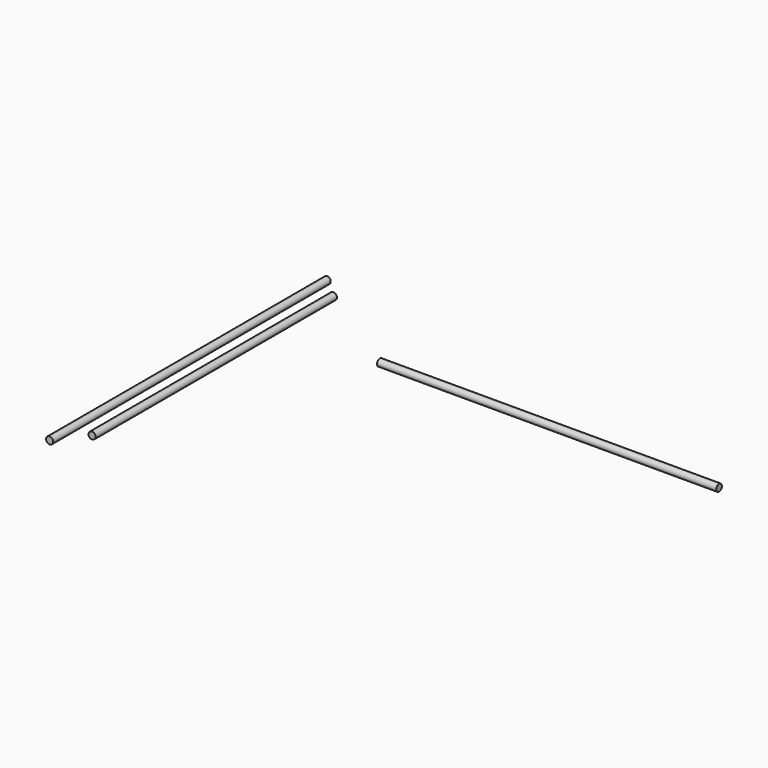
from build123d import *

# Parameters (mm, degrees)
F0_R     = 4
F4_DEPTH = 382.175
F1_R     = 4
F5_DEPTH = 391
F6_R     = 4
F7_DEPTH = 340


with BuildPart() as f4:
    # F0 (on Right) → F4 (new body)
    with BuildSketch(Plane.YZ):
        Circle(F0_R)
    extrude(amount=F4_DEPTH)


with BuildPart() as f5:
    # F1 (on Front) → F5 (new body)
    with BuildSketch(Plane.XZ):
        with Locations((-59.4056621194, 62.2670501471)):
            Circle(F1_R)
    extrude(amount=F5_DEPTH)


with BuildPart() as f7:
    # F6 (on Front) → F7 (new body)
    with BuildSketch(Plane.XZ):
        with Locations((-52.4065308273, 48.6889071763)):
            Circle(F6_R)
    extrude(amount=F7_DEPTH)


solid = Compound([f4.part, f5.part, f7.part])
